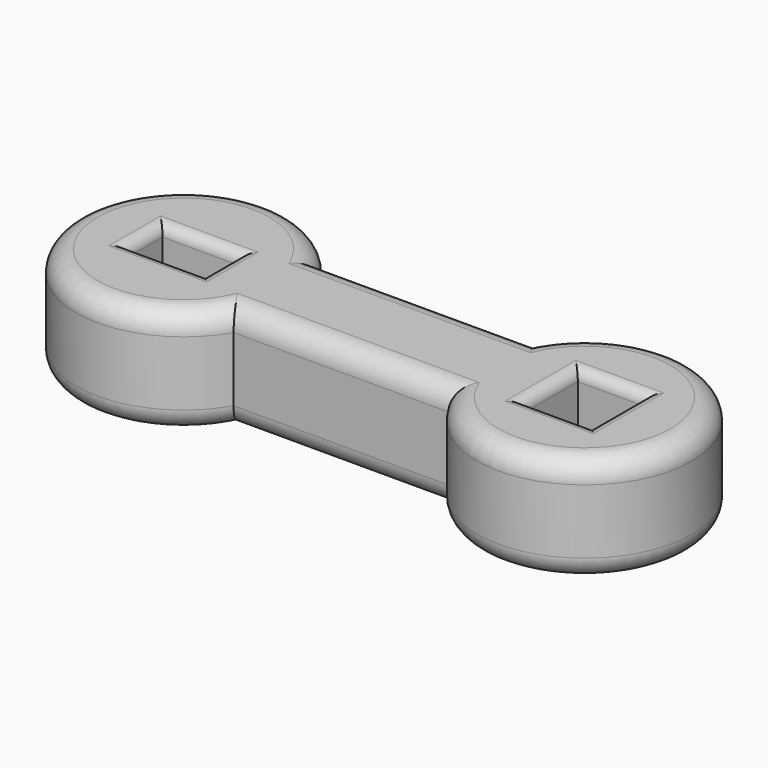
from build123d import *

# Parameters (mm, degrees)
SKETCH_W    = 7.1
SKETCH_H    = 4
SKETCH_W_2  = 6.2
SKETCH_H_2  = 6.2
PAD_DEPTH   = 10
FILLET_R    = 2
FILLET001_R = 1


with BuildPart() as part:
    # Sketch → Pad (new body)
    with BuildSketch(Plane.XY):
        with BuildLine():
            ThreePointArc((8.660254, 5), (-10, 0), (8.660254, -5))
            Line((8.660254, -5), (28.660254, -5))
            ThreePointArc((28.660254, -5), (47.320508, 0), (28.660254, 5))
            Line((8.660254, 5), (28.660254, 5))
        make_face()
        Rectangle(SKETCH_W, SKETCH_H, mode=Mode.SUBTRACT)
        with Locations((37.320508, 0)):
            Rectangle(SKETCH_W_2, SKETCH_H_2, mode=Mode.SUBTRACT)
    extrude(amount=PAD_DEPTH)

    # Fillet
    fillet_edges = [part.edges().sort_by_distance(p)[0] for p in [
        (-10, 0, 10),
        (18.660254, -5, 10),
        (18.660254, 5, 10),
        (47.320508, 0, 10),
        (-10, 0, 0),
        (18.660254, -5, 0),
        (47.320508, 0, 0),
        (18.660254, 5, 0),
    ]]
    fillet(fillet_edges, radius=FILLET_R)

    # Fillet001
    fillet001_edges = [part.edges().sort_by_distance(p)[0] for p in [
        (0, -2, 0),
        (-3.55, 0, 0),
        (0, 2, 0),
        (3.55, 0, 0),
        (0, 2, 10),
        (0, -2, 10),
        (3.55, 0, 10),
        (-3.55, 0, 10),
        (37.320508, 3.1, 10),
        (34.220508, 0, 10),
        (37.320508, -3.1, 10),
        (40.420508, 0, 10),
        (37.320508, -3.1, 0),
        (40.420508, 0, 0),
        (37.320508, 3.1, 0),
        (34.220508, 0, 0),
    ]]
    fillet(fillet001_edges, radius=FILLET001_R)


solid = part.part
